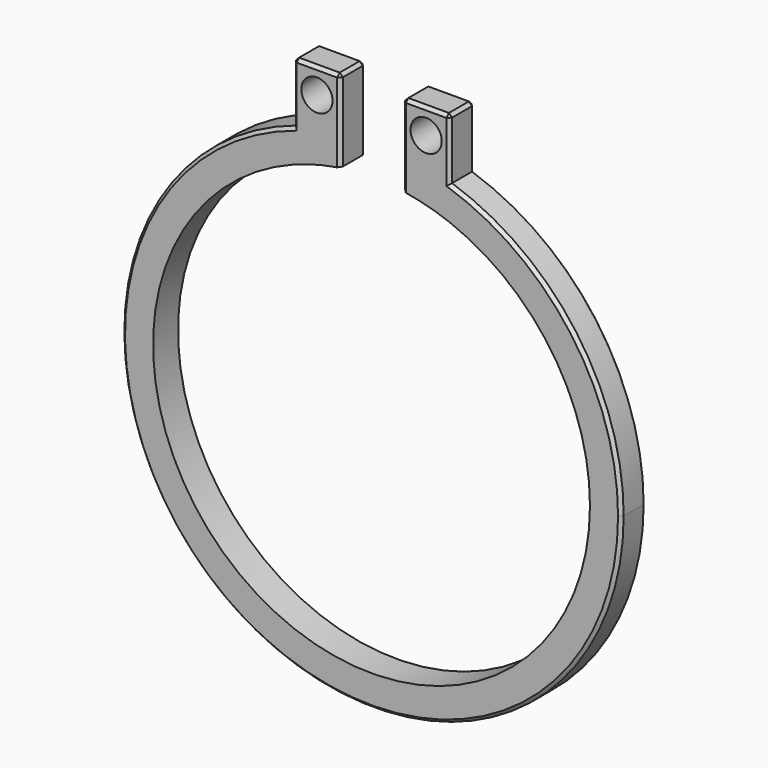
from build123d import *

# Parameters (mm, degrees)
F0_W     = 1.5
F0_H     = 1.609648519
F0_R     = 0.5
F1_DEPTH = 1
F2_SIZE  = 0.1


with BuildPart() as f1:
    # F0 (on Front) → F1 (new body)
    with BuildSketch(Plane.XZ):
        with BuildLine():
            Line((2.5, 7.9372539332), (1, 7.9372539332))
            ThreePointArc((1, 7.9372539332), (1.7581371123, 7.8044188697), (2.5, 7.5993420768))
            Line((2.5, 7.5993420768), (2.5, 7.9372539332))
        make_face()
        with BuildLine():
            ThreePointArc((-2.5, 7.5993420768), (-1.7581371123, 7.8044188697), (-1, 7.9372539332))
            Line((-1, 7.9372539332), (-2.5, 7.9372539332))
            Line((-2.5, 7.9372539332), (-2.5, 7.5993420768))
        make_face()
        with Locations((-1.75, 8.7420781927)):
            Rectangle(F0_W, F0_H)
        with Locations((-1.75, 8.7420781927)):
            Circle(F0_R, mode=Mode.SUBTRACT)
        with Locations((1.75, 8.7420781927)):
            Rectangle(F0_W, F0_H)
        with Locations((1.75, 8.7420781927)):
            Circle(F0_R, mode=Mode.SUBTRACT)
        with BuildLine():
            ThreePointArc((8, 0), (6.4807406984, 4.6904157598), (2.5, 7.5993420768))
            Line((2.5, 7.5993420768), (2.5, 6.5383484153))
            ThreePointArc((2.5, 6.5383484153), (5.7662812973, 3.9686269666), (7, 0))
            ThreePointArc((7, 0), (-3.9686269666, -5.7662812973), (-2.5, 6.5383484153))
            Line((-2.5, 6.5383484153), (-2.5, 7.5993420768))
            ThreePointArc((-2.5, 7.5993420768), (-4.6904157598, -6.4807406984), (8, 0))
        make_face()
        with BuildLine():
            ThreePointArc((2.5, 7.5993420768), (1.7581371123, 7.8044188697), (1, 7.9372539332))
            Line((1, 7.9372539332), (1, 6.9282032303))
            ThreePointArc((1, 6.9282032303), (1.7608227322, 6.7749172176), (2.5, 6.5383484153))
            Line((2.5, 6.5383484153), (2.5, 7.5993420768))
        make_face()
        with BuildLine():
            Line((-1, 6.9282032303), (-1, 7.9372539332))
            ThreePointArc((-1, 7.9372539332), (-1.7581371123, 7.8044188697), (-2.5, 7.5993420768))
            Line((-2.5, 7.5993420768), (-2.5, 6.5383484153))
            ThreePointArc((-2.5, 6.5383484153), (-1.7608227322, 6.7749172176), (-1, 6.9282032303))
        make_face()
    extrude(amount=F1_DEPTH)

    # F2
    f2_edges = [f1.edges().sort_by_distance(p)[0] for p in [
        (-1.75, -1, 9.546902),
        (-1, -1, 8.237553),
        (-2.5, -1, 8.573122),
        (0, -1, -8),
        (2.5, -1, 8.573122),
        (1.75, -1, 9.546902),
        (1, -1, 8.237553),
        (1.75, 0, 9.546902),
        (1, -0.5, 9.546902),
        (2.5, -0.5, 9.546902),
        (-1, -0.5, 9.546902),
        (-1.75, 0, 9.546902),
        (-2.5, -0.5, 9.546902),
        (-1, 0, 8.237553),
        (1, 0, 8.237553),
        (2.5, 0, 8.573122),
        (-2.5, 0, 8.573122),
        (0, 0, -8),
    ]]
    chamfer(f2_edges, length=F2_SIZE)


solid = f1.part
